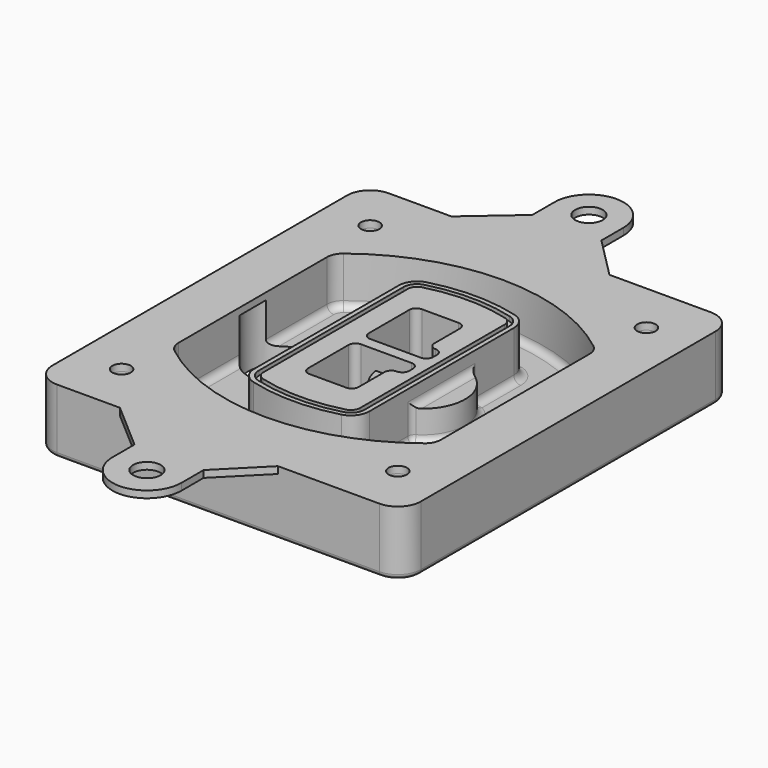
from build123d import *

# Parameters (mm, degrees)
F0_R      = 4
F1_DEPTH  = 25
F2_DEPTH  = 3
F3_DEPTH  = 18
F5_DEPTH  = 21
F6_DEPTH  = 2
F8_DEPTH  = 20
F9_DEPTH  = 16
F10_DEPTH = 25
F7_R      = 6
F7_R_2    = 4
F11_DEPTH = 6
F13_DEPTH = 9
F14_R     = 3
F15_R     = 2
F16_R     = 6
F16_R_2   = 4
F17_DEPTH = 3


with BuildPart() as f1:
    # F0 (on Top) → F1 (new body)
    with BuildSketch(Plane.XY):
        with BuildLine():
            ThreePointArc((-80, -80), (-77.0710678119, -87.0710678119), (-70, -90))
            Line((-70, -90), (70, -90))
            ThreePointArc((70, -90), (77.0710678119, -87.0710678119), (80, -80))
            Line((80, -80), (80, 80))
            ThreePointArc((80, 80), (77.0710678119, 87.0710678119), (70, 90))
            Line((70, 90), (-70, 90))
            ThreePointArc((-70, 90), (-77.0710678119, 87.0710678119), (-80, 80))
            Line((-80, 80), (-80, -80))
        make_face()
        with Locations((-60, -67.5)):
            Circle(F0_R, mode=Mode.SUBTRACT)
        with Locations((60, -67.5)):
            Circle(F0_R, mode=Mode.SUBTRACT)
        with Locations((-60, 67.5)):
            Circle(F0_R, mode=Mode.SUBTRACT)
        with BuildLine():
            ThreePointArc((-64, 40.2934422872), (-62.5820384798, 46.4328484224), (-58.6153846154, 51.3286200352))
            ThreePointArc((-58.6153846154, 51.3286200352), (0, 71.5), (58.6153846154, 51.3286200352))
            ThreePointArc((58.6153846154, 51.3286200352), (62.5820384798, 46.4328484224), (64, 40.2934422872))
            Line((64, 40.2934422872), (64, -40.2934422872))
            ThreePointArc((64, -40.2934422872), (62.5820384798, -46.4328484224), (58.6153846154, -51.3286200352))
            ThreePointArc((58.6153846154, -51.3286200352), (0, -71.5), (-58.6153846154, -51.3286200352))
            ThreePointArc((-58.6153846154, -51.3286200352), (-62.5820384798, -46.4328484224), (-64, -40.2934422872))
            Line((-64, -40.2934422872), (-64, 40.2934422872))
        make_face(mode=Mode.SUBTRACT)
        with Locations((60, 67.5)):
            Circle(F0_R, mode=Mode.SUBTRACT)
        with BuildLine():
            ThreePointArc((58.6153846154, 51.3286200352), (0, 71.5), (-58.6153846154, 51.3286200352))
            ThreePointArc((-58.6153846154, 51.3286200352), (-62.5820384798, 46.4328484224), (-64, 40.2934422872))
            Line((-64, 40.2934422872), (-64, -40.2934422872))
            ThreePointArc((-64, -40.2934422872), (-62.5820384798, -46.4328484224), (-58.6153846154, -51.3286200352))
            ThreePointArc((-58.6153846154, -51.3286200352), (0, -71.5), (58.6153846154, -51.3286200352))
            ThreePointArc((58.6153846154, -51.3286200352), (62.5820384798, -46.4328484224), (64, -40.2934422872))
            Line((64, -40.2934422872), (64, 40.2934422872))
            ThreePointArc((64, 40.2934422872), (62.5820384798, 46.4328484224), (58.6153846154, 51.3286200352))
        make_face()
        with BuildLine():
            Line((-60, -40.2934422872), (-60, 40.2934422872))
            ThreePointArc((-60, 40.2934422872), (-58.9871703427, 44.6787323838), (-56.1538461538, 48.1757121072))
            ThreePointArc((-56.1538461538, 48.1757121072), (0, 67.5), (56.1538461538, 48.1757121072))
            ThreePointArc((56.1538461538, 48.1757121072), (58.9871703427, 44.6787323838), (60, 40.2934422872))
            Line((60, 40.2934422872), (60, -40.2934422872))
            ThreePointArc((60, -40.2934422872), (58.9871703427, -44.6787323838), (56.1538461538, -48.1757121072))
            ThreePointArc((56.1538461538, -48.1757121072), (0, -67.5), (-56.1538461538, -48.1757121072))
            ThreePointArc((-56.1538461538, -48.1757121072), (-58.9871703427, -44.6787323838), (-60, -40.2934422872))
        make_face(mode=Mode.SUBTRACT)
        with BuildLine():
            ThreePointArc((-56.1538461538, 48.1757121072), (-58.9871703427, 44.6787323838), (-60, 40.2934422872))
            Line((-60, 40.2934422872), (-60, -40.2934422872))
            ThreePointArc((-60, -40.2934422872), (-58.9871703427, -44.6787323838), (-56.1538461538, -48.1757121072))
            ThreePointArc((-56.1538461538, -48.1757121072), (0, -67.5), (56.1538461538, -48.1757121072))
            ThreePointArc((56.1538461538, -48.1757121072), (58.9871703427, -44.6787323838), (60, -40.2934422872))
            Line((60, -40.2934422872), (60, 40.2934422872))
            ThreePointArc((60, 40.2934422872), (58.9871703427, 44.6787323838), (56.1538461538, 48.1757121072))
            ThreePointArc((56.1538461538, 48.1757121072), (0, 67.5), (-56.1538461538, 48.1757121072))
        make_face()
        with BuildLine():
            ThreePointArc((54.3076923077, 45.8110311612), (56.2910192399, 43.3631453548), (57, 40.2934422872))
            Line((57, 40.2934422872), (57, -40.2934422872))
            ThreePointArc((57, -40.2934422872), (56.2910192399, -43.3631453548), (54.3076923077, -45.8110311612))
            ThreePointArc((54.3076923077, -45.8110311612), (0, -64.5), (-54.3076923077, -45.8110311612))
            ThreePointArc((-54.3076923077, -45.8110311612), (-56.2910192399, -43.3631453548), (-57, -40.2934422872))
            Line((-57, -40.2934422872), (-57, 40.2934422872))
            ThreePointArc((-57, 40.2934422872), (-56.2910192399, 43.3631453548), (-54.3076923077, 45.8110311612))
            ThreePointArc((-54.3076923077, 45.8110311612), (0, 64.5), (54.3076923077, 45.8110311612))
        make_face(mode=Mode.SUBTRACT)
        with BuildLine():
            Line((57, -40.2934422872), (57, 40.2934422872))
            ThreePointArc((57, 40.2934422872), (56.2910192399, 43.3631453548), (54.3076923077, 45.8110311612))
            ThreePointArc((54.3076923077, 45.8110311612), (0, 64.5), (-54.3076923077, 45.8110311612))
            ThreePointArc((-54.3076923077, 45.8110311612), (-56.2910192399, 43.3631453548), (-57, 40.2934422872))
            Line((-57, 40.2934422872), (-57, -40.2934422872))
            ThreePointArc((-57, -40.2934422872), (-56.2910192399, -43.3631453548), (-54.3076923077, -45.8110311612))
            ThreePointArc((-54.3076923077, -45.8110311612), (0, -64.5), (54.3076923077, -45.8110311612))
            ThreePointArc((54.3076923077, -45.8110311612), (56.2910192399, -43.3631453548), (57, -40.2934422872))
        make_face()
    extrude(amount=-F1_DEPTH)

    # F0 (on Top) → F2 (join)
    with BuildSketch(Plane.XY):
        with BuildLine():
            ThreePointArc((-56.1538461538, 48.1757121072), (-58.9871703427, 44.6787323838), (-60, 40.2934422872))
            Line((-60, 40.2934422872), (-60, -40.2934422872))
            ThreePointArc((-60, -40.2934422872), (-58.9871703427, -44.6787323838), (-56.1538461538, -48.1757121072))
            ThreePointArc((-56.1538461538, -48.1757121072), (0, -67.5), (56.1538461538, -48.1757121072))
            ThreePointArc((56.1538461538, -48.1757121072), (58.9871703427, -44.6787323838), (60, -40.2934422872))
            Line((60, -40.2934422872), (60, 40.2934422872))
            ThreePointArc((60, 40.2934422872), (58.9871703427, 44.6787323838), (56.1538461538, 48.1757121072))
            ThreePointArc((56.1538461538, 48.1757121072), (0, 67.5), (-56.1538461538, 48.1757121072))
        make_face()
        with BuildLine():
            ThreePointArc((54.3076923077, 45.8110311612), (56.2910192399, 43.3631453548), (57, 40.2934422872))
            Line((57, 40.2934422872), (57, -40.2934422872))
            ThreePointArc((57, -40.2934422872), (56.2910192399, -43.3631453548), (54.3076923077, -45.8110311612))
            ThreePointArc((54.3076923077, -45.8110311612), (0, -64.5), (-54.3076923077, -45.8110311612))
            ThreePointArc((-54.3076923077, -45.8110311612), (-56.2910192399, -43.3631453548), (-57, -40.2934422872))
            Line((-57, -40.2934422872), (-57, 40.2934422872))
            ThreePointArc((-57, 40.2934422872), (-56.2910192399, 43.3631453548), (-54.3076923077, 45.8110311612))
            ThreePointArc((-54.3076923077, 45.8110311612), (0, 64.5), (54.3076923077, 45.8110311612))
        make_face(mode=Mode.SUBTRACT)
    extrude(amount=F2_DEPTH)

    # F0 (on Top) → F3 (cut)
    with BuildSketch(Plane.XY):
        with BuildLine():
            Line((57, -40.2934422872), (57, 40.2934422872))
            ThreePointArc((57, 40.2934422872), (56.2910192399, 43.3631453548), (54.3076923077, 45.8110311612))
            ThreePointArc((54.3076923077, 45.8110311612), (0, 64.5), (-54.3076923077, 45.8110311612))
            ThreePointArc((-54.3076923077, 45.8110311612), (-56.2910192399, 43.3631453548), (-57, 40.2934422872))
            Line((-57, 40.2934422872), (-57, -40.2934422872))
            ThreePointArc((-57, -40.2934422872), (-56.2910192399, -43.3631453548), (-54.3076923077, -45.8110311612))
            ThreePointArc((-54.3076923077, -45.8110311612), (0, -64.5), (54.3076923077, -45.8110311612))
            ThreePointArc((54.3076923077, -45.8110311612), (56.2910192399, -43.3631453548), (57, -40.2934422872))
        make_face()
    extrude(amount=-F3_DEPTH, mode=Mode.SUBTRACT)

    # F4 (on face) → F5 (join, through all)
    with BuildSketch(Plane.XY.offset(3)):
        with BuildLine():
            ThreePointArc((-25, -39.2465276821), (-23.3511545998, -44.1109737193), (-19.0842911877, -46.9702398883))
            ThreePointArc((-19.0842911877, -46.9702398883), (0, -49.5), (19.0842911877, -46.9702398883))
            ThreePointArc((19.0842911877, -46.9702398883), (23.3511545998, -44.1109737193), (25, -39.2465276821))
            Line((25, -39.2465276821), (25, 39.2465276821))
            ThreePointArc((25, 39.2465276821), (23.3511545998, 44.1109737193), (19.0842911877, 46.9702398883))
            ThreePointArc((19.0842911877, 46.9702398883), (0, 49.5), (-19.0842911877, 46.9702398883))
            ThreePointArc((-19.0842911877, 46.9702398883), (-23.3511545998, 44.1109737193), (-25, 39.2465276821))
            Line((-25, 39.2465276821), (-25, -39.2465276821))
        make_face()
        with BuildLine():
            ThreePointArc((18.5632183908, 45.0393118368), (21.7633659499, 42.89486221), (23, 39.2465276821))
            Line((23, 39.2465276821), (23, -39.2465276821))
            ThreePointArc((23, -39.2465276821), (21.7633659499, -42.89486221), (18.5632183908, -45.0393118368))
            ThreePointArc((18.5632183908, -45.0393118368), (0, -47.5), (-18.5632183908, -45.0393118368))
            ThreePointArc((-18.5632183908, -45.0393118368), (-21.7633659499, -42.89486221), (-23, -39.2465276821))
            Line((-23, -39.2465276821), (-23, 39.2465276821))
            ThreePointArc((-23, 39.2465276821), (-21.7633659499, 42.89486221), (-18.5632183908, 45.0393118368))
            ThreePointArc((-18.5632183908, 45.0393118368), (0, 47.5), (18.5632183908, 45.0393118368))
        make_face(mode=Mode.SUBTRACT)
        with BuildLine():
            Line((23, -39.2465276821), (23, 39.2465276821))
            ThreePointArc((23, 39.2465276821), (21.7633659499, 42.89486221), (18.5632183908, 45.0393118368))
            ThreePointArc((18.5632183908, 45.0393118368), (0, 47.5), (-18.5632183908, 45.0393118368))
            ThreePointArc((-18.5632183908, 45.0393118368), (-21.7633659499, 42.89486221), (-23, 39.2465276821))
            Line((-23, 39.2465276821), (-23, -39.2465276821))
            ThreePointArc((-23, -39.2465276821), (-21.7633659499, -42.89486221), (-18.5632183908, -45.0393118368))
            ThreePointArc((-18.5632183908, -45.0393118368), (0, -47.5), (18.5632183908, -45.0393118368))
            ThreePointArc((18.5632183908, -45.0393118368), (21.7633659499, -42.89486221), (23, -39.2465276821))
        make_face()
        with BuildLine():
            ThreePointArc((18.0421455939, 43.1083837852), (20.1755772999, 41.6787507007), (21, 39.2465276821))
            Line((21, 39.2465276821), (21, -39.2465276821))
            ThreePointArc((21, -39.2465276821), (20.1755772999, -41.6787507007), (18.0421455939, -43.1083837852))
            ThreePointArc((18.0421455939, -43.1083837852), (0, -45.5), (-18.0421455939, -43.1083837852))
            ThreePointArc((-18.0421455939, -43.1083837852), (-20.1755772999, -41.6787507007), (-21, -39.2465276821))
            Line((-21, -39.2465276821), (-21, 39.2465276821))
            ThreePointArc((-21, 39.2465276821), (-20.1755772999, 41.6787507007), (-18.0421455939, 43.1083837852))
            ThreePointArc((-18.0421455939, 43.1083837852), (0, 45.5), (18.0421455939, 43.1083837852))
        make_face(mode=Mode.SUBTRACT)
        with BuildLine():
            Line((21, -39.2465276821), (21, 39.2465276821))
            ThreePointArc((21, 39.2465276821), (20.1755772999, 41.6787507007), (18.0421455939, 43.1083837852))
            ThreePointArc((18.0421455939, 43.1083837852), (0, 45.5), (-18.0421455939, 43.1083837852))
            ThreePointArc((-18.0421455939, 43.1083837852), (-20.1755772999, 41.6787507007), (-21, 39.2465276821))
            Line((-21, 39.2465276821), (-21, -39.2465276821))
            ThreePointArc((-21, -39.2465276821), (-20.1755772999, -41.6787507007), (-18.0421455939, -43.1083837852))
            ThreePointArc((-18.0421455939, -43.1083837852), (0, -45.5), (18.0421455939, -43.1083837852))
            ThreePointArc((18.0421455939, -43.1083837852), (20.1755772999, -41.6787507007), (21, -39.2465276821))
        make_face()
        with BuildLine():
            Line((-8, -2.5), (14, -2.5))
            ThreePointArc((14, -2.5), (16.1213203436, -3.3786796564), (17, -5.5))
            Line((17, -5.5), (17, -7.5))
            ThreePointArc((17, -7.5), (16.1213203436, -9.6213203436), (14, -10.5))
            ThreePointArc((14, -10.5), (11.8786796564, -11.3786796564), (11, -13.5))
            Line((11, -13.5), (11, -27.5))
            ThreePointArc((11, -27.5), (10.1213203436, -29.6213203436), (8, -30.5))
            Line((8, -30.5), (-8, -30.5))
            ThreePointArc((-8, -30.5), (-10.1213203436, -29.6213203436), (-11, -27.5))
            Line((-11, -27.5), (-11, -5.5))
            ThreePointArc((-11, -5.5), (-10.1213203436, -3.3786796564), (-8, -2.5))
        make_face(mode=Mode.SUBTRACT)
        with BuildLine():
            ThreePointArc((-8, 2.5), (-10.1213203436, 3.3786796564), (-11, 5.5))
            Line((-11, 5.5), (-11, 27.5))
            ThreePointArc((-11, 27.5), (-10.1213203436, 29.6213203436), (-8, 30.5))
            Line((-8, 30.5), (8, 30.5))
            ThreePointArc((8, 30.5), (10.1213203436, 29.6213203436), (11, 27.5))
            Line((11, 27.5), (11, 13.5))
            ThreePointArc((11, 13.5), (11.8786796564, 11.3786796564), (14, 10.5))
            ThreePointArc((14, 10.5), (16.1213203436, 9.6213203436), (17, 7.5))
            Line((17, 7.5), (17, 5.5))
            ThreePointArc((17, 5.5), (16.1213203436, 3.3786796564), (14, 2.5))
            Line((14, 2.5), (-8, 2.5))
        make_face(mode=Mode.SUBTRACT)
    extrude(amount=-F5_DEPTH)

    # F4 (on face) → F6 (cut)
    with BuildSketch(Plane.XY.offset(3)):
        with BuildLine():
            Line((23, -39.2465276821), (23, 39.2465276821))
            ThreePointArc((23, 39.2465276821), (21.7633659499, 42.89486221), (18.5632183908, 45.0393118368))
            ThreePointArc((18.5632183908, 45.0393118368), (0, 47.5), (-18.5632183908, 45.0393118368))
            ThreePointArc((-18.5632183908, 45.0393118368), (-21.7633659499, 42.89486221), (-23, 39.2465276821))
            Line((-23, 39.2465276821), (-23, -39.2465276821))
            ThreePointArc((-23, -39.2465276821), (-21.7633659499, -42.89486221), (-18.5632183908, -45.0393118368))
            ThreePointArc((-18.5632183908, -45.0393118368), (0, -47.5), (18.5632183908, -45.0393118368))
            ThreePointArc((18.5632183908, -45.0393118368), (21.7633659499, -42.89486221), (23, -39.2465276821))
        make_face()
        with BuildLine():
            ThreePointArc((18.0421455939, 43.1083837852), (20.1755772999, 41.6787507007), (21, 39.2465276821))
            Line((21, 39.2465276821), (21, -39.2465276821))
            ThreePointArc((21, -39.2465276821), (20.1755772999, -41.6787507007), (18.0421455939, -43.1083837852))
            ThreePointArc((18.0421455939, -43.1083837852), (0, -45.5), (-18.0421455939, -43.1083837852))
            ThreePointArc((-18.0421455939, -43.1083837852), (-20.1755772999, -41.6787507007), (-21, -39.2465276821))
            Line((-21, -39.2465276821), (-21, 39.2465276821))
            ThreePointArc((-21, 39.2465276821), (-20.1755772999, 41.6787507007), (-18.0421455939, 43.1083837852))
            ThreePointArc((-18.0421455939, 43.1083837852), (0, 45.5), (18.0421455939, 43.1083837852))
        make_face(mode=Mode.SUBTRACT)
    extrude(amount=-F6_DEPTH, mode=Mode.SUBTRACT)

    # F7 (on face) → F8 (join)
    with BuildSketch(Plane(origin=(0, 0, -25), x_dir=(1, 0, 0), z_dir=(0, 0, -1))):
        with BuildLine():
            ThreePointArc((3.28842436, 0), (16.7567035675, 13.4682792075), (30.224982775, 0))
            Line((30.224982775, 0), (35.224982775, 0))
            ThreePointArc((35.224982775, 0), (16.7567035675, 18.4682792075), (-1.71157564, 0))
            Line((-1.71157564, 0), (3.28842436, 0))
        make_face()
        with BuildLine():
            Line((3.28842436, 0), (30.224982775, 0))
            ThreePointArc((30.224982775, 0), (16.7567035675, 13.4682792075), (3.28842436, 0))
        make_face()
        with BuildLine():
            ThreePointArc((3.28842436, 0), (16.7567035675, -13.4682792075), (30.224982775, 0))
            Line((30.224982775, 0), (3.28842436, 0))
        make_face()
        with BuildLine():
            Line((35.224982775, 0), (30.224982775, 0))
            ThreePointArc((30.224982775, 0), (16.7567035675, -13.4682792075), (3.28842436, 0))
            Line((3.28842436, 0), (-1.71157564, 0))
            ThreePointArc((-1.71157564, 0), (16.7567035675, -18.4682792075), (35.224982775, 0))
        make_face()
    extrude(amount=-F8_DEPTH)

    # F7 (on face) → F9 (cut)
    with BuildSketch(Plane(origin=(0, 0, -25), x_dir=(1, 0, 0), z_dir=(0, 0, -1))):
        with BuildLine():
            Line((3.28842436, 0), (30.224982775, 0))
            ThreePointArc((30.224982775, 0), (16.7567035675, 13.4682792075), (3.28842436, 0))
        make_face()
        with BuildLine():
            ThreePointArc((3.28842436, 0), (16.7567035675, -13.4682792075), (30.224982775, 0))
            Line((30.224982775, 0), (3.28842436, 0))
        make_face()
    extrude(amount=-F9_DEPTH, mode=Mode.SUBTRACT)

    # F7 (on face) → F10 (cut)
    with BuildSketch(Plane(origin=(0, 0, -25), x_dir=(1, 0, 0), z_dir=(0, 0, -1))):
        with BuildLine():
            Line((-59.0318229325, 0), (-32.0952645175, 0))
            ThreePointArc((-32.0952645175, 0), (-45.563543725, 13.4682792075), (-59.0318229325, 0))
        make_face()
        with BuildLine():
            ThreePointArc((-59.0318229325, 0), (-45.563543725, -13.4682792075), (-32.0952645175, 0))
            Line((-32.0952645175, 0), (-59.0318229325, 0))
        make_face()
    extrude(amount=-F10_DEPTH, mode=Mode.SUBTRACT)

    # F7 (on face) → F11 (cut)
    with BuildSketch(Plane(origin=(0, 0, -25), x_dir=(1, 0, 0), z_dir=(0, 0, -1))):
        with Locations((60, -67.5)):
            Circle(F7_R)
        with Locations((60, -67.5)):
            Circle(F7_R_2, mode=Mode.SUBTRACT)
        with Locations((60, -67.5)):
            Circle(F7_R)
        with Locations((60, -67.5)):
            Circle(F7_R_2, mode=Mode.SUBTRACT)
        with Locations((-60, -67.5)):
            Circle(F7_R)
        with Locations((-60, -67.5)):
            Circle(F7_R_2, mode=Mode.SUBTRACT)
        with Locations((-60, -67.5)):
            Circle(F7_R)
        with Locations((-60, -67.5)):
            Circle(F7_R_2, mode=Mode.SUBTRACT)
        with Locations((-60, 67.5)):
            Circle(F7_R)
        with Locations((-60, 67.5)):
            Circle(F7_R_2, mode=Mode.SUBTRACT)
        with Locations((-60, 67.5)):
            Circle(F7_R)
        with Locations((-60, 67.5)):
            Circle(F7_R_2, mode=Mode.SUBTRACT)
        with Locations((60, 67.5)):
            Circle(F7_R)
        with Locations((60, 67.5)):
            Circle(F7_R_2, mode=Mode.SUBTRACT)
        with Locations((60, 67.5)):
            Circle(F7_R)
        with Locations((60, 67.5)):
            Circle(F7_R_2, mode=Mode.SUBTRACT)
    extrude(amount=-F11_DEPTH, mode=Mode.SUBTRACT)

    # F12 (on face) → F13 (cut, through all)
    with BuildSketch(Plane(origin=(0, 0, -9), x_dir=(1, 0, 0), z_dir=(0, 0, -1))):
        with BuildLine():
            Line((11, 13.5), (11, 17.5481537753))
            ThreePointArc((11, 17.5481537753), (2.5696536419, 11.8239143813), (-1.5415842455, 2.5))
            Line((-1.5415842455, 2.5), (3.5224848595, 2.5))
            ThreePointArc((3.5224848595, 2.5), (6.1857188154, 8.3455872281), (11.2536447004, 12.2927168648))
            ThreePointArc((11.2536447004, 12.2927168648), (11.0640958889, 12.8831798879), (11, 13.5))
        make_face()
        with BuildLine():
            ThreePointArc((11.2536447004, -12.2927168648), (6.1857188154, -8.3455872281), (3.5224848595, -2.5))
            Line((3.5224848595, -2.5), (-1.5415842455, -2.5))
            ThreePointArc((-1.5415842455, -2.5), (2.5696536419, -11.8239143813), (11, -17.5481537753))
            Line((11, -17.5481537753), (11, -13.5))
            ThreePointArc((11, -13.5), (11.0640958889, -12.8831798879), (11.2536447004, -12.2927168648))
        make_face()
        with BuildLine():
            ThreePointArc((11.2536447004, 12.2927168648), (6.1857188154, 8.3455872281), (3.5224848595, 2.5))
            Line((3.5224848595, 2.5), (14, 2.5))
            ThreePointArc((14, 2.5), (16.1213203436, 3.3786796564), (17, 5.5))
            Line((17, 5.5), (17, 7.5))
            ThreePointArc((17, 7.5), (16.1213203436, 9.6213203436), (14, 10.5))
            ThreePointArc((14, 10.5), (12.3601599782, 10.9878446101), (11.2536447004, 12.2927168648))
        make_face()
        with BuildLine():
            Line((14, -2.5), (3.5224848595, -2.5))
            ThreePointArc((3.5224848595, -2.5), (6.1857188154, -8.3455872281), (11.2536447004, -12.2927168648))
            ThreePointArc((11.2536447004, -12.2927168648), (12.3601599782, -10.9878446101), (14, -10.5))
            ThreePointArc((14, -10.5), (16.1213203436, -9.6213203436), (17, -7.5))
            Line((17, -7.5), (17, -5.5))
            ThreePointArc((17, -5.5), (16.1213203436, -3.3786796564), (14, -2.5))
        make_face()
    extrude(amount=F13_DEPTH, mode=Mode.SUBTRACT)

    # F14
    f14_edges = [f1.edges().sort_by_distance(p)[0] for p in [
        (-57, -23.703476, -18),
        (-57, 23.703476, -18),
        (25, 0, -5),
        (25, 16.526506, -11.5),
        (25, -16.526506, -11.5),
        (25, -27.886517, -18),
        (35.224983, 0, -18),
    ]]
    fillet(f14_edges, radius=F14_R)

    # F15
    f15_edges = [f1.edges().sort_by_distance(p)[0] for p in [
        (0, -90, -25),
    ]]
    fillet(f15_edges, radius=F15_R)

    # F16 (on face) → F17 (join, through all)
    with BuildSketch(Plane.XY):
        with BuildLine():
            Line((-21.9686161727, 108), (-42.7279807627, 90))
            Line((-42.7279807627, 90), (25.9376112372, 90))
            Line((25.9376112372, 90), (8.0313838273, 108))
            Line((8.0313838273, 108), (8.0313838273, 120))
            ThreePointArc((8.0313838273, 120), (-6.9686161727, 135), (-21.9686161727, 120))
            Line((-21.9686161727, 120), (-21.9686161727, 108))
        make_face()
        with Locations((-6.9686161727, 120)):
            Circle(F16_R, mode=Mode.SUBTRACT)
        with BuildLine():
            Line((25.9376112372, -90), (-42.7279807627, -90))
            Line((-42.7279807627, -90), (-21.9686161727, -108))
            Line((-21.9686161727, -108), (-21.9686161727, -120))
            ThreePointArc((-21.9686161727, -120), (-6.9686161727, -135), (8.0313838273, -120))
            Line((8.0313838273, -120), (8.0313838273, -108))
            Line((8.0313838273, -108), (25.9376112372, -90))
        make_face()
        with Locations((-6.9686161727, -120)):
            Circle(F16_R, mode=Mode.SUBTRACT)
        with BuildLine():
            Line((25.9376112372, 90), (-42.7279807627, 90))
            Line((-42.7279807627, 90), (-70, 90))
            ThreePointArc((-70, 90), (-77.0710678119, 87.0710678119), (-80, 80))
            Line((-80, 80), (-80, 0))
            Line((-80, 0), (-60, 0))
            Line((-60, 0), (-60, 40.2934422872))
            ThreePointArc((-60, 40.2934422872), (-58.9871703427, 44.6787323838), (-56.1538461538, 48.1757121072))
            ThreePointArc((-56.1538461538, 48.1757121072), (0, 67.5), (56.1538461538, 48.1757121072))
            ThreePointArc((56.1538461538, 48.1757121072), (58.9871703427, 44.6787323838), (60, 40.2934422872))
            Line((60, 40.2934422872), (60, 0))
            Line((60, 0), (80, 0))
            Line((80, 0), (80, 80))
            ThreePointArc((80, 80), (77.0710678119, 87.0710678119), (70, 90))
            Line((70, 90), (25.9376112372, 90))
        make_face()
        with Locations((-60, 67.5)):
            Circle(F16_R_2, mode=Mode.SUBTRACT)
        with Locations((60, 67.5)):
            Circle(F16_R_2, mode=Mode.SUBTRACT)
        with BuildLine():
            Line((-60, 0), (-80, 0))
            Line((-80, 0), (-80, -80))
            ThreePointArc((-80, -80), (-77.0710678119, -87.0710678119), (-70, -90))
            Line((-70, -90), (-42.7279807627, -90))
            Line((-42.7279807627, -90), (25.9376112372, -90))
            Line((25.9376112372, -90), (70, -90))
            ThreePointArc((70, -90), (77.0710678119, -87.0710678119), (80, -80))
            Line((80, -80), (80, 0))
            Line((80, 0), (60, 0))
            Line((60, 0), (60, -40.2934422872))
            ThreePointArc((60, -40.2934422872), (58.9871703427, -44.6787323838), (56.1538461538, -48.1757121072))
            ThreePointArc((56.1538461538, -48.1757121072), (0, -67.5), (-56.1538461538, -48.1757121072))
            ThreePointArc((-56.1538461538, -48.1757121072), (-58.9871703427, -44.6787323838), (-60, -40.2934422872))
            Line((-60, -40.2934422872), (-60, 0))
        make_face()
        with Locations((-60, -67.5)):
            Circle(F16_R_2, mode=Mode.SUBTRACT)
        with Locations((60, -67.5)):
            Circle(F16_R_2, mode=Mode.SUBTRACT)
    extrude(amount=F17_DEPTH)


solid = f1.part
